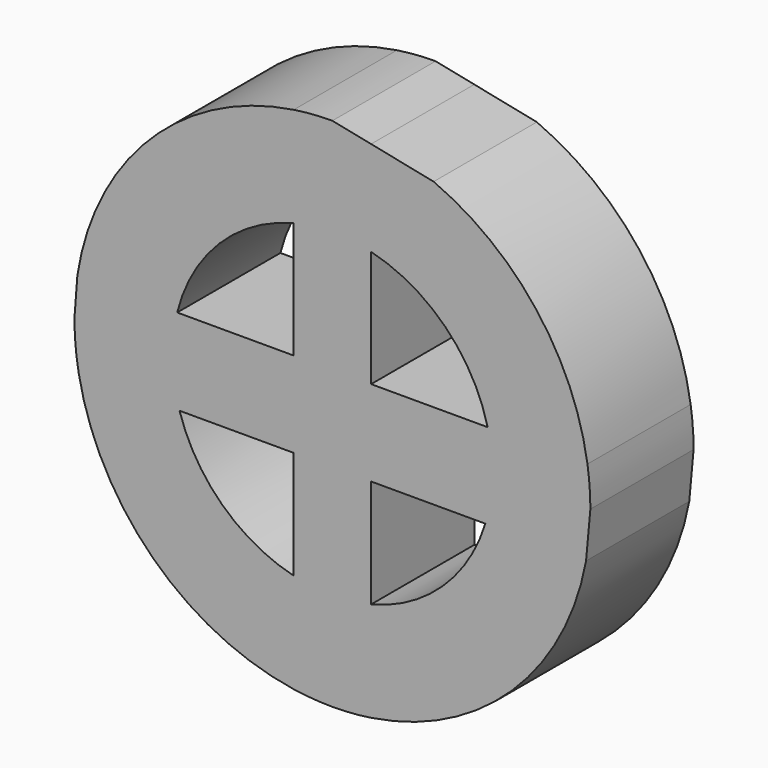
from build123d import *

# Parameters (mm, degrees)
F1_DEPTH = 25


with BuildPart() as f1:
    # F0 (on Front) → F1 (new body)
    with BuildSketch(Plane.XZ):
        with BuildLine():
            Line((-7.5, 30.0790624854), (-7.5, 49.4342998332))
            ThreePointArc((-7.5, 49.4342998332), (-35.3553390593, 35.3553390593), (-49.4342998332, 7.5))
            Line((-49.4342998332, 7.5), (-30.0790624854, 7.5))
            ThreePointArc((-30.0790624854, 7.5), (-21.9203102168, 21.9203102168), (-7.5, 30.0790624854))
        make_face()
        with BuildLine():
            ThreePointArc((49.4342998332, 7.5), (39.5276683909, 30.6196576007), (19.6180084329, 45.9905832223))
            Line((19.6180084329, 45.9905832223), (7.5, 48.4671927359))
            Line((7.5, 48.4671927359), (7.5, 30.0790624854))
            ThreePointArc((7.5, 30.0790624854), (21.9203102168, 21.9203102168), (30.0790624854, 7.5))
            Line((30.0790624854, 7.5), (49.4342998332, 7.5))
        make_face()
        with BuildLine():
            ThreePointArc((7.5, -49.4342998332), (34.773891693, -35.9273775348), (49.1633315746, -9.1086128737))
            Line((49.1633315746, -9.1086128737), (29.631624517, -9.1086128737))
            ThreePointArc((29.631624517, -9.1086128737), (21.322038459, -22.502681528), (7.5, -30.0790624854))
            Line((7.5, -30.0790624854), (7.5, -49.4342998332))
        make_face()
        with BuildLine():
            Line((49.1633315746, -9.1086128737), (50, 0))
            Line((50, 0), (31, 0))
            ThreePointArc((31, 0), (30.6559974559, -4.6054120322), (29.631624517, -9.1086128737))
            Line((29.631624517, -9.1086128737), (49.1633315746, -9.1086128737))
        make_face()
        with BuildLine():
            ThreePointArc((50, 0), (49.8583743801, 3.7606520937), (49.4342998332, 7.5))
            Line((49.4342998332, 7.5), (30.0790624854, 7.5))
            ThreePointArc((30.0790624854, 7.5), (30.7689042464, 3.7781650939), (31, 0))
            Line((31, 0), (50, 0))
        make_face()
        with BuildLine():
            Line((7.5, 48.4671927359), (0, 50))
            Line((0, 50), (0, 31))
            ThreePointArc((0, 31), (3.7781650939, 30.7689042464), (7.5, 30.0790624854))
            Line((7.5, 30.0790624854), (7.5, 48.4671927359))
        make_face()
        with BuildLine():
            Line((-30.0790624854, 7.5), (-49.4342998332, 7.5))
            Line((-49.4342998332, 7.5), (-50, 0))
            Line((-50, 0), (-31, 0))
            ThreePointArc((-31, 0), (-30.7689042464, 3.7781650939), (-30.0790624854, 7.5))
        make_face()
        with BuildLine():
            Line((-31, 0), (-50, 0))
            ThreePointArc((-50, 0), (-49.790393545, -4.5734790515), (-49.1633315746, -9.1086128737))
            Line((-49.1633315746, -9.1086128737), (-29.631624517, -9.1086128737))
            ThreePointArc((-29.631624517, -9.1086128737), (-30.6559974559, -4.6054120322), (-31, 0))
        make_face()
        with BuildLine():
            Line((-29.631624517, -9.1086128737), (-49.1633315746, -9.1086128737))
            ThreePointArc((-49.1633315746, -9.1086128737), (-34.773891693, -35.9273775348), (-7.5, -49.4342998332))
            Line((-7.5, -49.4342998332), (-7.5, -30.0790624854))
            ThreePointArc((-7.5, -30.0790624854), (-21.322038459, -22.502681528), (-29.631624517, -9.1086128737))
        make_face()
        with BuildLine():
            Line((-7.5, -30.0790624854), (-7.5, -49.4342998332))
            ThreePointArc((-7.5, -49.4342998332), (-3.7606520937, -49.8583743801), (0, -50))
            Line((0, -50), (0, -31))
            ThreePointArc((0, -31), (-3.7781650939, -30.7689042464), (-7.5, -30.0790624854))
        make_face()
        with BuildLine():
            ThreePointArc((0, -50), (3.7606520937, -49.8583743801), (7.5, -49.4342998332))
            Line((7.5, -49.4342998332), (7.5, -30.0790624854))
            ThreePointArc((7.5, -30.0790624854), (3.7781650939, -30.7689042464), (0, -31))
            Line((0, -31), (0, -50))
        make_face()
        with BuildLine():
            Line((0, 31), (0, 50))
            ThreePointArc((0, 50), (-3.7606520937, 49.8583743801), (-7.5, 49.4342998332))
            Line((-7.5, 49.4342998332), (-7.5, 30.0790624854))
            ThreePointArc((-7.5, 30.0790624854), (-3.7781650939, 30.7689042464), (0, 31))
        make_face()
        with BuildLine():
            Line((-7.5, 7.5), (-30.0790624854, 7.5))
            ThreePointArc((-30.0790624854, 7.5), (-30.7689042464, 3.7781650939), (-31, 0))
            Line((-31, 0), (-7.5, 0))
            Line((-7.5, 0), (-7.5, 7.5))
        make_face()
        with BuildLine():
            Line((-7.5, -9.1086128737), (-7.5, 0))
            Line((-7.5, 0), (-31, 0))
            ThreePointArc((-31, 0), (-30.6559974559, -4.6054120322), (-29.631624517, -9.1086128737))
            Line((-29.631624517, -9.1086128737), (-7.5, -9.1086128737))
        make_face()
        with BuildLine():
            ThreePointArc((31, 0), (30.7689042464, 3.7781650939), (30.0790624854, 7.5))
            Line((30.0790624854, 7.5), (7.5, 7.5))
            Line((7.5, 7.5), (7.5, 0))
            Line((7.5, 0), (31, 0))
        make_face()
        with BuildLine():
            Line((31, 0), (7.5, 0))
            Line((7.5, 0), (7.5, -9.1086128737))
            Line((7.5, -9.1086128737), (29.631624517, -9.1086128737))
            ThreePointArc((29.631624517, -9.1086128737), (30.6559974559, -4.6054120322), (31, 0))
        make_face()
        with BuildLine():
            ThreePointArc((7.5, 0), (5.3033008589, 5.3033008589), (0, 7.5))
            Line((0, 7.5), (0, 2.5))
            ThreePointArc((0, 2.5), (1.767766953, 1.767766953), (2.5, 0))
            Line((2.5, 0), (7.5, 0))
        make_face()
        with BuildLine():
            Line((0, 2.5), (0, 7.5))
            ThreePointArc((0, 7.5), (-5.3033008589, 5.3033008589), (-7.5, 0))
            Line((-7.5, 0), (-2.5, 0))
            ThreePointArc((-2.5, 0), (-1.767766953, 1.767766953), (0, 2.5))
        make_face()
        with BuildLine():
            ThreePointArc((0, -7.5), (5.3033008589, -5.3033008589), (7.5, 0))
            Line((7.5, 0), (2.5, 0))
            ThreePointArc((2.5, 0), (1.767766953, -1.767766953), (0, -2.5))
            Line((0, -2.5), (0, -7.5))
        make_face()
        with BuildLine():
            Line((-2.5, 0), (-7.5, 0))
            ThreePointArc((-7.5, 0), (-5.3033008589, -5.3033008589), (0, -7.5))
            Line((0, -7.5), (0, -2.5))
            ThreePointArc((0, -2.5), (-1.767766953, -1.767766953), (-2.5, 0))
        make_face()
        with BuildLine():
            Line((0, 0), (-2.5, 0))
            ThreePointArc((-2.5, 0), (-1.767766953, -1.767766953), (0, -2.5))
            Line((0, -2.5), (0, 0))
        make_face()
        with BuildLine():
            ThreePointArc((0, -2.5), (1.767766953, -1.767766953), (2.5, 0))
            Line((2.5, 0), (0, 0))
            Line((0, 0), (0, -2.5))
        make_face()
        with BuildLine():
            ThreePointArc((2.5, 0), (1.767766953, 1.767766953), (0, 2.5))
            Line((0, 2.5), (0, 0))
            Line((0, 0), (2.5, 0))
        make_face()
        with BuildLine():
            Line((0, 0), (0, 2.5))
            ThreePointArc((0, 2.5), (-1.767766953, 1.767766953), (-2.5, 0))
            Line((-2.5, 0), (0, 0))
        make_face()
        with BuildLine():
            Line((7.5, 7.5), (0, 7.5))
            ThreePointArc((0, 7.5), (5.3033008589, 5.3033008589), (7.5, 0))
            Line((7.5, 0), (7.5, 7.5))
        make_face()
        with BuildLine():
            ThreePointArc((-7.5, 0), (-5.3033008589, 5.3033008589), (0, 7.5))
            Line((0, 7.5), (-7.5, 7.5))
            Line((-7.5, 7.5), (-7.5, 0))
        make_face()
        with BuildLine():
            ThreePointArc((0, -7.5), (-5.3033008589, -5.3033008589), (-7.5, 0))
            Line((-7.5, 0), (-7.5, -9.1086128737))
            Line((-7.5, -9.1086128737), (0, -9.1086128737))
            Line((0, -9.1086128737), (0, -7.5))
        make_face()
        with BuildLine():
            Line((7.5, -9.1086128737), (7.5, 0))
            ThreePointArc((7.5, 0), (5.3033008589, -5.3033008589), (0, -7.5))
            Line((0, -7.5), (0, -9.1086128737))
            Line((0, -9.1086128737), (7.5, -9.1086128737))
        make_face()
        with BuildLine():
            Line((0, 7.5), (0, 31))
            ThreePointArc((0, 31), (-3.7781650939, 30.7689042464), (-7.5, 30.0790624854))
            Line((-7.5, 30.0790624854), (-7.5, 7.5))
            Line((-7.5, 7.5), (0, 7.5))
        make_face()
        with BuildLine():
            ThreePointArc((7.5, 30.0790624854), (3.7781650939, 30.7689042464), (0, 31))
            Line((0, 31), (0, 7.5))
            Line((0, 7.5), (7.5, 7.5))
            Line((7.5, 7.5), (7.5, 30.0790624854))
        make_face()
        with BuildLine():
            Line((0, -9.1086128737), (-7.5, -9.1086128737))
            Line((-7.5, -9.1086128737), (-7.5, -30.0790624854))
            ThreePointArc((-7.5, -30.0790624854), (-3.7781650939, -30.7689042464), (0, -31))
            Line((0, -31), (0, -9.1086128737))
        make_face()
        with BuildLine():
            Line((7.5, -30.0790624854), (7.5, -9.1086128737))
            Line((7.5, -9.1086128737), (0, -9.1086128737))
            Line((0, -9.1086128737), (0, -31))
            ThreePointArc((0, -31), (3.7781650939, -30.7689042464), (7.5, -30.0790624854))
        make_face()
    extrude(amount=F1_DEPTH)


solid = f1.part
